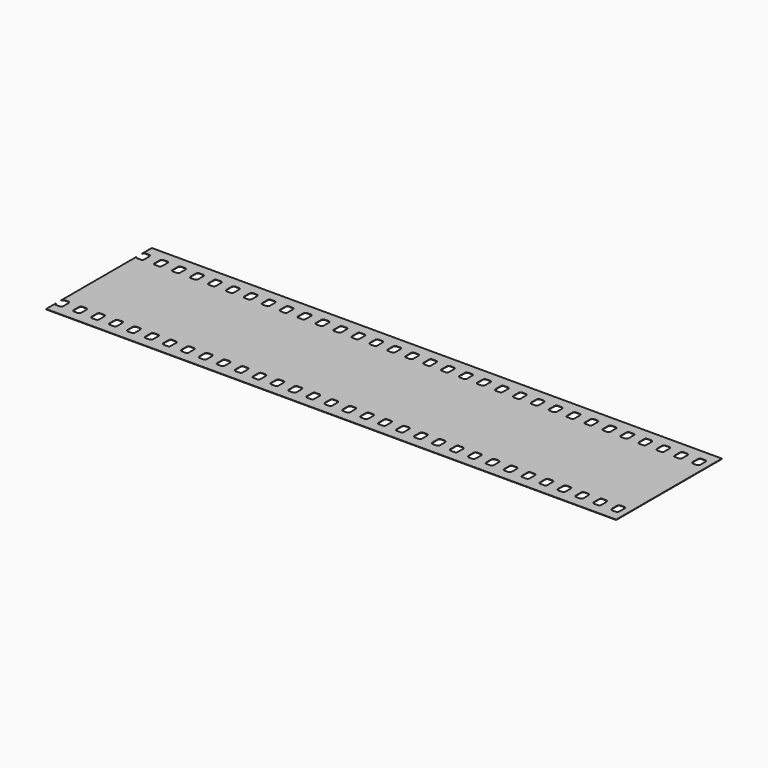
from build123d import *

# Parameters (mm, degrees)
F1_DEPTH = 0.1


with BuildPart() as f1:
    # F0 (on Top) → F1 (new body)
    with BuildSketch(Plane.XY):
        with BuildLine():
            Line((151, 0), (0, 0))
            Line((0, 0), (0, -3.216))
            ThreePointArc((0, -3.216), (0.149376, -2.855376), (0.51, -2.706))
            Line((0.51, -2.706), (1.471, -2.706))
            ThreePointArc((1.471, -2.706), (1.831624, -2.855376), (1.981, -3.216))
            Line((1.981, -3.216), (1.981, -4.99))
            ThreePointArc((1.981, -4.99), (1.831624, -5.350624), (1.471, -5.5))
            Line((1.471, -5.5), (0.51, -5.5))
            ThreePointArc((0.51, -5.5), (0.149376, -5.350624), (0, -4.99))
            Line((0, -4.99), (0, -30.01))
            ThreePointArc((0, -30.01), (0.149376, -29.649376), (0.51, -29.5))
            Line((0.51, -29.5), (1.471, -29.5))
            ThreePointArc((1.471, -29.5), (1.831624, -29.649376), (1.981, -30.01))
            Line((1.981, -30.01), (1.981, -31.784))
            ThreePointArc((1.981, -31.784), (1.831624, -32.144624), (1.471, -32.294))
            Line((1.471, -32.294), (0.51, -32.294))
            ThreePointArc((0.51, -32.294), (0.149376, -32.144624), (0, -31.784))
            Line((0, -31.784), (0, -35))
            Line((0, -35), (151, -35))
            Line((151, -35), (151, 0))
        make_face()
        with BuildLine():
            ThreePointArc((4.75, -30.01), (4.899376, -29.649376), (5.26, -29.5))
            Line((5.26, -29.5), (6.221, -29.5))
            ThreePointArc((6.221, -29.5), (6.581624, -29.649376), (6.731, -30.01))
            Line((6.731, -30.01), (6.731, -31.784))
            ThreePointArc((6.731, -31.784), (6.581624, -32.144624), (6.221, -32.294))
            Line((6.221, -32.294), (5.26, -32.294))
            ThreePointArc((5.26, -32.294), (4.899376, -32.144624), (4.75, -31.784))
            Line((4.75, -31.784), (4.75, -30.01))
        make_face(mode=Mode.SUBTRACT)
        with BuildLine():
            ThreePointArc((9.5, -30.01), (9.649376, -29.649376), (10.01, -29.5))
            Line((10.01, -29.5), (10.971, -29.5))
            ThreePointArc((10.971, -29.5), (11.331624, -29.649376), (11.481, -30.01))
            Line((11.481, -30.01), (11.481, -31.784))
            ThreePointArc((11.481, -31.784), (11.331624, -32.144624), (10.971, -32.294))
            Line((10.971, -32.294), (10.01, -32.294))
            ThreePointArc((10.01, -32.294), (9.649376, -32.144624), (9.5, -31.784))
            Line((9.5, -31.784), (9.5, -30.01))
        make_face(mode=Mode.SUBTRACT)
        with BuildLine():
            ThreePointArc((14.25, -30.01), (14.399376, -29.649376), (14.76, -29.5))
            Line((14.76, -29.5), (15.721, -29.5))
            ThreePointArc((15.721, -29.5), (16.081624, -29.649376), (16.231, -30.01))
            Line((16.231, -30.01), (16.231, -31.784))
            ThreePointArc((16.231, -31.784), (16.081624, -32.144624), (15.721, -32.294))
            Line((15.721, -32.294), (14.76, -32.294))
            ThreePointArc((14.76, -32.294), (14.399376, -32.144624), (14.25, -31.784))
            Line((14.25, -31.784), (14.25, -30.01))
        make_face(mode=Mode.SUBTRACT)
        with BuildLine():
            ThreePointArc((19, -30.01), (19.149376, -29.649376), (19.51, -29.5))
            Line((19.51, -29.5), (20.471, -29.5))
            ThreePointArc((20.471, -29.5), (20.831624, -29.649376), (20.981, -30.01))
            Line((20.981, -30.01), (20.981, -31.784))
            ThreePointArc((20.981, -31.784), (20.831624, -32.144624), (20.471, -32.294))
            Line((20.471, -32.294), (19.51, -32.294))
            ThreePointArc((19.51, -32.294), (19.149376, -32.144624), (19, -31.784))
            Line((19, -31.784), (19, -30.01))
        make_face(mode=Mode.SUBTRACT)
        with BuildLine():
            ThreePointArc((23.75, -30.01), (23.899376, -29.649376), (24.26, -29.5))
            Line((24.26, -29.5), (25.221, -29.5))
            ThreePointArc((25.221, -29.5), (25.581624, -29.649376), (25.731, -30.01))
            Line((25.731, -30.01), (25.731, -31.784))
            ThreePointArc((25.731, -31.784), (25.581624, -32.144624), (25.221, -32.294))
            Line((25.221, -32.294), (24.26, -32.294))
            ThreePointArc((24.26, -32.294), (23.899376, -32.144624), (23.75, -31.784))
            Line((23.75, -31.784), (23.75, -30.01))
        make_face(mode=Mode.SUBTRACT)
        with BuildLine():
            ThreePointArc((28.5, -30.01), (28.649376, -29.649376), (29.01, -29.5))
            Line((29.01, -29.5), (29.971, -29.5))
            ThreePointArc((29.971, -29.5), (30.331624, -29.649376), (30.481, -30.01))
            Line((30.481, -30.01), (30.481, -31.784))
            ThreePointArc((30.481, -31.784), (30.331624, -32.144624), (29.971, -32.294))
            Line((29.971, -32.294), (29.01, -32.294))
            ThreePointArc((29.01, -32.294), (28.649376, -32.144624), (28.5, -31.784))
            Line((28.5, -31.784), (28.5, -30.01))
        make_face(mode=Mode.SUBTRACT)
        with BuildLine():
            ThreePointArc((33.25, -30.01), (33.399376, -29.649376), (33.76, -29.5))
            Line((33.76, -29.5), (34.721, -29.5))
            ThreePointArc((34.721, -29.5), (35.081624, -29.649376), (35.231, -30.01))
            Line((35.231, -30.01), (35.231, -31.784))
            ThreePointArc((35.231, -31.784), (35.081624, -32.144624), (34.721, -32.294))
            Line((34.721, -32.294), (33.76, -32.294))
            ThreePointArc((33.76, -32.294), (33.399376, -32.144624), (33.25, -31.784))
            Line((33.25, -31.784), (33.25, -30.01))
        make_face(mode=Mode.SUBTRACT)
        with BuildLine():
            ThreePointArc((38, -30.01), (38.149376, -29.649376), (38.51, -29.5))
            Line((38.51, -29.5), (39.471, -29.5))
            ThreePointArc((39.471, -29.5), (39.831624, -29.649376), (39.981, -30.01))
            Line((39.981, -30.01), (39.981, -31.784))
            ThreePointArc((39.981, -31.784), (39.831624, -32.144624), (39.471, -32.294))
            Line((39.471, -32.294), (38.51, -32.294))
            ThreePointArc((38.51, -32.294), (38.149376, -32.144624), (38, -31.784))
            Line((38, -31.784), (38, -30.01))
        make_face(mode=Mode.SUBTRACT)
        with BuildLine():
            ThreePointArc((42.75, -30.01), (42.899376, -29.649376), (43.26, -29.5))
            Line((43.26, -29.5), (44.221, -29.5))
            ThreePointArc((44.221, -29.5), (44.581624, -29.649376), (44.731, -30.01))
            Line((44.731, -30.01), (44.731, -31.784))
            ThreePointArc((44.731, -31.784), (44.581624, -32.144624), (44.221, -32.294))
            Line((44.221, -32.294), (43.26, -32.294))
            ThreePointArc((43.26, -32.294), (42.899376, -32.144624), (42.75, -31.784))
            Line((42.75, -31.784), (42.75, -30.01))
        make_face(mode=Mode.SUBTRACT)
        with BuildLine():
            ThreePointArc((47.5, -30.01), (47.649376, -29.649376), (48.01, -29.5))
            Line((48.01, -29.5), (48.971, -29.5))
            ThreePointArc((48.971, -29.5), (49.331624, -29.649376), (49.481, -30.01))
            Line((49.481, -30.01), (49.481, -31.784))
            ThreePointArc((49.481, -31.784), (49.331624, -32.144624), (48.971, -32.294))
            Line((48.971, -32.294), (48.01, -32.294))
            ThreePointArc((48.01, -32.294), (47.649376, -32.144624), (47.5, -31.784))
            Line((47.5, -31.784), (47.5, -30.01))
        make_face(mode=Mode.SUBTRACT)
        with BuildLine():
            ThreePointArc((52.25, -30.01), (52.399376, -29.649376), (52.76, -29.5))
            Line((52.76, -29.5), (53.721, -29.5))
            ThreePointArc((53.721, -29.5), (54.081624, -29.649376), (54.231, -30.01))
            Line((54.231, -30.01), (54.231, -31.784))
            ThreePointArc((54.231, -31.784), (54.081624, -32.144624), (53.721, -32.294))
            Line((53.721, -32.294), (52.76, -32.294))
            ThreePointArc((52.76, -32.294), (52.399376, -32.144624), (52.25, -31.784))
            Line((52.25, -31.784), (52.25, -30.01))
        make_face(mode=Mode.SUBTRACT)
        with BuildLine():
            ThreePointArc((57, -30.01), (57.149376, -29.649376), (57.51, -29.5))
            Line((57.51, -29.5), (58.471, -29.5))
            ThreePointArc((58.471, -29.5), (58.831624, -29.649376), (58.981, -30.01))
            Line((58.981, -30.01), (58.981, -31.784))
            ThreePointArc((58.981, -31.784), (58.831624, -32.144624), (58.471, -32.294))
            Line((58.471, -32.294), (57.51, -32.294))
            ThreePointArc((57.51, -32.294), (57.149376, -32.144624), (57, -31.784))
            Line((57, -31.784), (57, -30.01))
        make_face(mode=Mode.SUBTRACT)
        with BuildLine():
            ThreePointArc((61.75, -30.01), (61.899376, -29.649376), (62.26, -29.5))
            Line((62.26, -29.5), (63.221, -29.5))
            ThreePointArc((63.221, -29.5), (63.581624, -29.649376), (63.731, -30.01))
            Line((63.731, -30.01), (63.731, -31.784))
            ThreePointArc((63.731, -31.784), (63.581624, -32.144624), (63.221, -32.294))
            Line((63.221, -32.294), (62.26, -32.294))
            ThreePointArc((62.26, -32.294), (61.899376, -32.144624), (61.75, -31.784))
            Line((61.75, -31.784), (61.75, -30.01))
        make_face(mode=Mode.SUBTRACT)
        with BuildLine():
            ThreePointArc((66.5, -30.01), (66.649376, -29.649376), (67.01, -29.5))
            Line((67.01, -29.5), (67.971, -29.5))
            ThreePointArc((67.971, -29.5), (68.331624, -29.649376), (68.481, -30.01))
            Line((68.481, -30.01), (68.481, -31.784))
            ThreePointArc((68.481, -31.784), (68.331624, -32.144624), (67.971, -32.294))
            Line((67.971, -32.294), (67.01, -32.294))
            ThreePointArc((67.01, -32.294), (66.649376, -32.144624), (66.5, -31.784))
            Line((66.5, -31.784), (66.5, -30.01))
        make_face(mode=Mode.SUBTRACT)
        with BuildLine():
            ThreePointArc((71.25, -30.01), (71.399376, -29.649376), (71.76, -29.5))
            Line((71.76, -29.5), (72.721, -29.5))
            ThreePointArc((72.721, -29.5), (73.081624, -29.649376), (73.231, -30.01))
            Line((73.231, -30.01), (73.231, -31.784))
            ThreePointArc((73.231, -31.784), (73.081624, -32.144624), (72.721, -32.294))
            Line((72.721, -32.294), (71.76, -32.294))
            ThreePointArc((71.76, -32.294), (71.399376, -32.144624), (71.25, -31.784))
            Line((71.25, -31.784), (71.25, -30.01))
        make_face(mode=Mode.SUBTRACT)
        with BuildLine():
            ThreePointArc((76, -30.01), (76.149376, -29.649376), (76.51, -29.5))
            Line((76.51, -29.5), (77.471, -29.5))
            ThreePointArc((77.471, -29.5), (77.831624, -29.649376), (77.981, -30.01))
            Line((77.981, -30.01), (77.981, -31.784))
            ThreePointArc((77.981, -31.784), (77.831624, -32.144624), (77.471, -32.294))
            Line((77.471, -32.294), (76.51, -32.294))
            ThreePointArc((76.51, -32.294), (76.149376, -32.144624), (76, -31.784))
            Line((76, -31.784), (76, -30.01))
        make_face(mode=Mode.SUBTRACT)
        with BuildLine():
            ThreePointArc((80.75, -30.01), (80.899376, -29.649376), (81.26, -29.5))
            Line((81.26, -29.5), (82.221, -29.5))
            ThreePointArc((82.221, -29.5), (82.581624, -29.649376), (82.731, -30.01))
            Line((82.731, -30.01), (82.731, -31.784))
            ThreePointArc((82.731, -31.784), (82.581624, -32.144624), (82.221, -32.294))
            Line((82.221, -32.294), (81.26, -32.294))
            ThreePointArc((81.26, -32.294), (80.899376, -32.144624), (80.75, -31.784))
            Line((80.75, -31.784), (80.75, -30.01))
        make_face(mode=Mode.SUBTRACT)
        with BuildLine():
            ThreePointArc((85.5, -30.01), (85.649376, -29.649376), (86.01, -29.5))
            Line((86.01, -29.5), (86.971, -29.5))
            ThreePointArc((86.971, -29.5), (87.331624, -29.649376), (87.481, -30.01))
            Line((87.481, -30.01), (87.481, -31.784))
            ThreePointArc((87.481, -31.784), (87.331624, -32.144624), (86.971, -32.294))
            Line((86.971, -32.294), (86.01, -32.294))
            ThreePointArc((86.01, -32.294), (85.649376, -32.144624), (85.5, -31.784))
            Line((85.5, -31.784), (85.5, -30.01))
        make_face(mode=Mode.SUBTRACT)
        with BuildLine():
            ThreePointArc((90.25, -30.01), (90.399376, -29.649376), (90.76, -29.5))
            Line((90.76, -29.5), (91.721, -29.5))
            ThreePointArc((91.721, -29.5), (92.081624, -29.649376), (92.231, -30.01))
            Line((92.231, -30.01), (92.231, -31.784))
            ThreePointArc((92.231, -31.784), (92.081624, -32.144624), (91.721, -32.294))
            Line((91.721, -32.294), (90.76, -32.294))
            ThreePointArc((90.76, -32.294), (90.399376, -32.144624), (90.25, -31.784))
            Line((90.25, -31.784), (90.25, -30.01))
        make_face(mode=Mode.SUBTRACT)
        with BuildLine():
            ThreePointArc((95, -30.01), (95.149376, -29.649376), (95.51, -29.5))
            Line((95.51, -29.5), (96.471, -29.5))
            ThreePointArc((96.471, -29.5), (96.831624, -29.649376), (96.981, -30.01))
            Line((96.981, -30.01), (96.981, -31.784))
            ThreePointArc((96.981, -31.784), (96.831624, -32.144624), (96.471, -32.294))
            Line((96.471, -32.294), (95.51, -32.294))
            ThreePointArc((95.51, -32.294), (95.149376, -32.144624), (95, -31.784))
            Line((95, -31.784), (95, -30.01))
        make_face(mode=Mode.SUBTRACT)
        with BuildLine():
            ThreePointArc((99.75, -30.01), (99.899376, -29.649376), (100.26, -29.5))
            Line((100.26, -29.5), (101.221, -29.5))
            ThreePointArc((101.221, -29.5), (101.581624, -29.649376), (101.731, -30.01))
            Line((101.731, -30.01), (101.731, -31.784))
            ThreePointArc((101.731, -31.784), (101.581624, -32.144624), (101.221, -32.294))
            Line((101.221, -32.294), (100.26, -32.294))
            ThreePointArc((100.26, -32.294), (99.899376, -32.144624), (99.75, -31.784))
            Line((99.75, -31.784), (99.75, -30.01))
        make_face(mode=Mode.SUBTRACT)
        with BuildLine():
            ThreePointArc((104.5, -30.01), (104.649376, -29.649376), (105.01, -29.5))
            Line((105.01, -29.5), (105.971, -29.5))
            ThreePointArc((105.971, -29.5), (106.331624, -29.649376), (106.481, -30.01))
            Line((106.481, -30.01), (106.481, -31.784))
            ThreePointArc((106.481, -31.784), (106.331624, -32.144624), (105.971, -32.294))
            Line((105.971, -32.294), (105.01, -32.294))
            ThreePointArc((105.01, -32.294), (104.649376, -32.144624), (104.5, -31.784))
            Line((104.5, -31.784), (104.5, -30.01))
        make_face(mode=Mode.SUBTRACT)
        with BuildLine():
            ThreePointArc((109.25, -30.01), (109.399376, -29.649376), (109.76, -29.5))
            Line((109.76, -29.5), (110.721, -29.5))
            ThreePointArc((110.721, -29.5), (111.081624, -29.649376), (111.231, -30.01))
            Line((111.231, -30.01), (111.231, -31.784))
            ThreePointArc((111.231, -31.784), (111.081624, -32.144624), (110.721, -32.294))
            Line((110.721, -32.294), (109.76, -32.294))
            ThreePointArc((109.76, -32.294), (109.399376, -32.144624), (109.25, -31.784))
            Line((109.25, -31.784), (109.25, -30.01))
        make_face(mode=Mode.SUBTRACT)
        with BuildLine():
            ThreePointArc((114, -30.01), (114.149376, -29.649376), (114.51, -29.5))
            Line((114.51, -29.5), (115.471, -29.5))
            ThreePointArc((115.471, -29.5), (115.831624, -29.649376), (115.981, -30.01))
            Line((115.981, -30.01), (115.981, -31.784))
            ThreePointArc((115.981, -31.784), (115.831624, -32.144624), (115.471, -32.294))
            Line((115.471, -32.294), (114.51, -32.294))
            ThreePointArc((114.51, -32.294), (114.149376, -32.144624), (114, -31.784))
            Line((114, -31.784), (114, -30.01))
        make_face(mode=Mode.SUBTRACT)
        with BuildLine():
            ThreePointArc((118.75, -30.01), (118.899376, -29.649376), (119.26, -29.5))
            Line((119.26, -29.5), (120.221, -29.5))
            ThreePointArc((120.221, -29.5), (120.581624, -29.649376), (120.731, -30.01))
            Line((120.731, -30.01), (120.731, -31.784))
            ThreePointArc((120.731, -31.784), (120.581624, -32.144624), (120.221, -32.294))
            Line((120.221, -32.294), (119.26, -32.294))
            ThreePointArc((119.26, -32.294), (118.899376, -32.144624), (118.75, -31.784))
            Line((118.75, -31.784), (118.75, -30.01))
        make_face(mode=Mode.SUBTRACT)
        with BuildLine():
            ThreePointArc((123.5, -30.01), (123.649376, -29.649376), (124.01, -29.5))
            Line((124.01, -29.5), (124.971, -29.5))
            ThreePointArc((124.971, -29.5), (125.331624, -29.649376), (125.481, -30.01))
            Line((125.481, -30.01), (125.481, -31.784))
            ThreePointArc((125.481, -31.784), (125.331624, -32.144624), (124.971, -32.294))
            Line((124.971, -32.294), (124.01, -32.294))
            ThreePointArc((124.01, -32.294), (123.649376, -32.144624), (123.5, -31.784))
            Line((123.5, -31.784), (123.5, -30.01))
        make_face(mode=Mode.SUBTRACT)
        with BuildLine():
            ThreePointArc((128.25, -30.01), (128.399376, -29.649376), (128.76, -29.5))
            Line((128.76, -29.5), (129.721, -29.5))
            ThreePointArc((129.721, -29.5), (130.081624, -29.649376), (130.231, -30.01))
            Line((130.231, -30.01), (130.231, -31.784))
            ThreePointArc((130.231, -31.784), (130.081624, -32.144624), (129.721, -32.294))
            Line((129.721, -32.294), (128.76, -32.294))
            ThreePointArc((128.76, -32.294), (128.399376, -32.144624), (128.25, -31.784))
            Line((128.25, -31.784), (128.25, -30.01))
        make_face(mode=Mode.SUBTRACT)
        with BuildLine():
            ThreePointArc((133, -30.01), (133.149376, -29.649376), (133.51, -29.5))
            Line((133.51, -29.5), (134.471, -29.5))
            ThreePointArc((134.471, -29.5), (134.831624, -29.649376), (134.981, -30.01))
            Line((134.981, -30.01), (134.981, -31.784))
            ThreePointArc((134.981, -31.784), (134.831624, -32.144624), (134.471, -32.294))
            Line((134.471, -32.294), (133.51, -32.294))
            ThreePointArc((133.51, -32.294), (133.149376, -32.144624), (133, -31.784))
            Line((133, -31.784), (133, -30.01))
        make_face(mode=Mode.SUBTRACT)
        with BuildLine():
            ThreePointArc((137.75, -30.01), (137.899376, -29.649376), (138.26, -29.5))
            Line((138.26, -29.5), (139.221, -29.5))
            ThreePointArc((139.221, -29.5), (139.581624, -29.649376), (139.731, -30.01))
            Line((139.731, -30.01), (139.731, -31.784))
            ThreePointArc((139.731, -31.784), (139.581624, -32.144624), (139.221, -32.294))
            Line((139.221, -32.294), (138.26, -32.294))
            ThreePointArc((138.26, -32.294), (137.899376, -32.144624), (137.75, -31.784))
            Line((137.75, -31.784), (137.75, -30.01))
        make_face(mode=Mode.SUBTRACT)
        with BuildLine():
            ThreePointArc((142.5, -30.01), (142.649376, -29.649376), (143.01, -29.5))
            Line((143.01, -29.5), (143.971, -29.5))
            ThreePointArc((143.971, -29.5), (144.331624, -29.649376), (144.481, -30.01))
            Line((144.481, -30.01), (144.481, -31.784))
            ThreePointArc((144.481, -31.784), (144.331624, -32.144624), (143.971, -32.294))
            Line((143.971, -32.294), (143.01, -32.294))
            ThreePointArc((143.01, -32.294), (142.649376, -32.144624), (142.5, -31.784))
            Line((142.5, -31.784), (142.5, -30.01))
        make_face(mode=Mode.SUBTRACT)
        with BuildLine():
            ThreePointArc((147.25, -30.01), (147.399376, -29.649376), (147.76, -29.5))
            Line((147.76, -29.5), (148.721, -29.5))
            ThreePointArc((148.721, -29.5), (149.081624, -29.649376), (149.231, -30.01))
            Line((149.231, -30.01), (149.231, -31.784))
            ThreePointArc((149.231, -31.784), (149.081624, -32.144624), (148.721, -32.294))
            Line((148.721, -32.294), (147.76, -32.294))
            ThreePointArc((147.76, -32.294), (147.399376, -32.144624), (147.25, -31.784))
            Line((147.25, -31.784), (147.25, -30.01))
        make_face(mode=Mode.SUBTRACT)
        with BuildLine():
            ThreePointArc((4.75, -3.216), (4.899376, -2.855376), (5.26, -2.706))
            Line((5.26, -2.706), (6.221, -2.706))
            ThreePointArc((6.221, -2.706), (6.581624, -2.855376), (6.731, -3.216))
            Line((6.731, -3.216), (6.731, -4.99))
            ThreePointArc((6.731, -4.99), (6.581624, -5.350624), (6.221, -5.5))
            Line((6.221, -5.5), (5.26, -5.5))
            ThreePointArc((5.26, -5.5), (4.899376, -5.350624), (4.75, -4.99))
            Line((4.75, -4.99), (4.75, -3.216))
        make_face(mode=Mode.SUBTRACT)
        with BuildLine():
            ThreePointArc((9.5, -3.216), (9.649376, -2.855376), (10.01, -2.706))
            Line((10.01, -2.706), (10.971, -2.706))
            ThreePointArc((10.971, -2.706), (11.331624, -2.855376), (11.481, -3.216))
            Line((11.481, -3.216), (11.481, -4.99))
            ThreePointArc((11.481, -4.99), (11.331624, -5.350624), (10.971, -5.5))
            Line((10.971, -5.5), (10.01, -5.5))
            ThreePointArc((10.01, -5.5), (9.649376, -5.350624), (9.5, -4.99))
            Line((9.5, -4.99), (9.5, -3.216))
        make_face(mode=Mode.SUBTRACT)
        with BuildLine():
            ThreePointArc((14.25, -3.216), (14.399376, -2.855376), (14.76, -2.706))
            Line((14.76, -2.706), (15.721, -2.706))
            ThreePointArc((15.721, -2.706), (16.081624, -2.855376), (16.231, -3.216))
            Line((16.231, -3.216), (16.231, -4.99))
            ThreePointArc((16.231, -4.99), (16.081624, -5.350624), (15.721, -5.5))
            Line((15.721, -5.5), (14.76, -5.5))
            ThreePointArc((14.76, -5.5), (14.399376, -5.350624), (14.25, -4.99))
            Line((14.25, -4.99), (14.25, -3.216))
        make_face(mode=Mode.SUBTRACT)
        with BuildLine():
            ThreePointArc((19, -3.216), (19.149376, -2.855376), (19.51, -2.706))
            Line((19.51, -2.706), (20.471, -2.706))
            ThreePointArc((20.471, -2.706), (20.831624, -2.855376), (20.981, -3.216))
            Line((20.981, -3.216), (20.981, -4.99))
            ThreePointArc((20.981, -4.99), (20.831624, -5.350624), (20.471, -5.5))
            Line((20.471, -5.5), (19.51, -5.5))
            ThreePointArc((19.51, -5.5), (19.149376, -5.350624), (19, -4.99))
            Line((19, -4.99), (19, -3.216))
        make_face(mode=Mode.SUBTRACT)
        with BuildLine():
            ThreePointArc((23.75, -3.216), (23.899376, -2.855376), (24.26, -2.706))
            Line((24.26, -2.706), (25.221, -2.706))
            ThreePointArc((25.221, -2.706), (25.581624, -2.855376), (25.731, -3.216))
            Line((25.731, -3.216), (25.731, -4.99))
            ThreePointArc((25.731, -4.99), (25.581624, -5.350624), (25.221, -5.5))
            Line((25.221, -5.5), (24.26, -5.5))
            ThreePointArc((24.26, -5.5), (23.899376, -5.350624), (23.75, -4.99))
            Line((23.75, -4.99), (23.75, -3.216))
        make_face(mode=Mode.SUBTRACT)
        with BuildLine():
            ThreePointArc((28.5, -3.216), (28.649376, -2.855376), (29.01, -2.706))
            Line((29.01, -2.706), (29.971, -2.706))
            ThreePointArc((29.971, -2.706), (30.331624, -2.855376), (30.481, -3.216))
            Line((30.481, -3.216), (30.481, -4.99))
            ThreePointArc((30.481, -4.99), (30.331624, -5.350624), (29.971, -5.5))
            Line((29.971, -5.5), (29.01, -5.5))
            ThreePointArc((29.01, -5.5), (28.649376, -5.350624), (28.5, -4.99))
            Line((28.5, -4.99), (28.5, -3.216))
        make_face(mode=Mode.SUBTRACT)
        with BuildLine():
            ThreePointArc((33.25, -3.216), (33.399376, -2.855376), (33.76, -2.706))
            Line((33.76, -2.706), (34.721, -2.706))
            ThreePointArc((34.721, -2.706), (35.081624, -2.855376), (35.231, -3.216))
            Line((35.231, -3.216), (35.231, -4.99))
            ThreePointArc((35.231, -4.99), (35.081624, -5.350624), (34.721, -5.5))
            Line((34.721, -5.5), (33.76, -5.5))
            ThreePointArc((33.76, -5.5), (33.399376, -5.350624), (33.25, -4.99))
            Line((33.25, -4.99), (33.25, -3.216))
        make_face(mode=Mode.SUBTRACT)
        with BuildLine():
            ThreePointArc((38, -3.216), (38.149376, -2.855376), (38.51, -2.706))
            Line((38.51, -2.706), (39.471, -2.706))
            ThreePointArc((39.471, -2.706), (39.831624, -2.855376), (39.981, -3.216))
            Line((39.981, -3.216), (39.981, -4.99))
            ThreePointArc((39.981, -4.99), (39.831624, -5.350624), (39.471, -5.5))
            Line((39.471, -5.5), (38.51, -5.5))
            ThreePointArc((38.51, -5.5), (38.149376, -5.350624), (38, -4.99))
            Line((38, -4.99), (38, -3.216))
        make_face(mode=Mode.SUBTRACT)
        with BuildLine():
            ThreePointArc((42.75, -3.216), (42.899376, -2.855376), (43.26, -2.706))
            Line((43.26, -2.706), (44.221, -2.706))
            ThreePointArc((44.221, -2.706), (44.581624, -2.855376), (44.731, -3.216))
            Line((44.731, -3.216), (44.731, -4.99))
            ThreePointArc((44.731, -4.99), (44.581624, -5.350624), (44.221, -5.5))
            Line((44.221, -5.5), (43.26, -5.5))
            ThreePointArc((43.26, -5.5), (42.899376, -5.350624), (42.75, -4.99))
            Line((42.75, -4.99), (42.75, -3.216))
        make_face(mode=Mode.SUBTRACT)
        with BuildLine():
            ThreePointArc((47.5, -3.216), (47.649376, -2.855376), (48.01, -2.706))
            Line((48.01, -2.706), (48.971, -2.706))
            ThreePointArc((48.971, -2.706), (49.331624, -2.855376), (49.481, -3.216))
            Line((49.481, -3.216), (49.481, -4.99))
            ThreePointArc((49.481, -4.99), (49.331624, -5.350624), (48.971, -5.5))
            Line((48.971, -5.5), (48.01, -5.5))
            ThreePointArc((48.01, -5.5), (47.649376, -5.350624), (47.5, -4.99))
            Line((47.5, -4.99), (47.5, -3.216))
        make_face(mode=Mode.SUBTRACT)
        with BuildLine():
            ThreePointArc((52.25, -3.216), (52.399376, -2.855376), (52.76, -2.706))
            Line((52.76, -2.706), (53.721, -2.706))
            ThreePointArc((53.721, -2.706), (54.081624, -2.855376), (54.231, -3.216))
            Line((54.231, -3.216), (54.231, -4.99))
            ThreePointArc((54.231, -4.99), (54.081624, -5.350624), (53.721, -5.5))
            Line((53.721, -5.5), (52.76, -5.5))
            ThreePointArc((52.76, -5.5), (52.399376, -5.350624), (52.25, -4.99))
            Line((52.25, -4.99), (52.25, -3.216))
        make_face(mode=Mode.SUBTRACT)
        with BuildLine():
            ThreePointArc((57, -3.216), (57.149376, -2.855376), (57.51, -2.706))
            Line((57.51, -2.706), (58.471, -2.706))
            ThreePointArc((58.471, -2.706), (58.831624, -2.855376), (58.981, -3.216))
            Line((58.981, -3.216), (58.981, -4.99))
            ThreePointArc((58.981, -4.99), (58.831624, -5.350624), (58.471, -5.5))
            Line((58.471, -5.5), (57.51, -5.5))
            ThreePointArc((57.51, -5.5), (57.149376, -5.350624), (57, -4.99))
            Line((57, -4.99), (57, -3.216))
        make_face(mode=Mode.SUBTRACT)
        with BuildLine():
            ThreePointArc((61.75, -3.216), (61.899376, -2.855376), (62.26, -2.706))
            Line((62.26, -2.706), (63.221, -2.706))
            ThreePointArc((63.221, -2.706), (63.581624, -2.855376), (63.731, -3.216))
            Line((63.731, -3.216), (63.731, -4.99))
            ThreePointArc((63.731, -4.99), (63.581624, -5.350624), (63.221, -5.5))
            Line((63.221, -5.5), (62.26, -5.5))
            ThreePointArc((62.26, -5.5), (61.899376, -5.350624), (61.75, -4.99))
            Line((61.75, -4.99), (61.75, -3.216))
        make_face(mode=Mode.SUBTRACT)
        with BuildLine():
            ThreePointArc((66.5, -3.216), (66.649376, -2.855376), (67.01, -2.706))
            Line((67.01, -2.706), (67.971, -2.706))
            ThreePointArc((67.971, -2.706), (68.331624, -2.855376), (68.481, -3.216))
            Line((68.481, -3.216), (68.481, -4.99))
            ThreePointArc((68.481, -4.99), (68.331624, -5.350624), (67.971, -5.5))
            Line((67.971, -5.5), (67.01, -5.5))
            ThreePointArc((67.01, -5.5), (66.649376, -5.350624), (66.5, -4.99))
            Line((66.5, -4.99), (66.5, -3.216))
        make_face(mode=Mode.SUBTRACT)
        with BuildLine():
            ThreePointArc((71.25, -3.216), (71.399376, -2.855376), (71.76, -2.706))
            Line((71.76, -2.706), (72.721, -2.706))
            ThreePointArc((72.721, -2.706), (73.081624, -2.855376), (73.231, -3.216))
            Line((73.231, -3.216), (73.231, -4.99))
            ThreePointArc((73.231, -4.99), (73.081624, -5.350624), (72.721, -5.5))
            Line((72.721, -5.5), (71.76, -5.5))
            ThreePointArc((71.76, -5.5), (71.399376, -5.350624), (71.25, -4.99))
            Line((71.25, -4.99), (71.25, -3.216))
        make_face(mode=Mode.SUBTRACT)
        with BuildLine():
            ThreePointArc((76, -3.216), (76.149376, -2.855376), (76.51, -2.706))
            Line((76.51, -2.706), (77.471, -2.706))
            ThreePointArc((77.471, -2.706), (77.831624, -2.855376), (77.981, -3.216))
            Line((77.981, -3.216), (77.981, -4.99))
            ThreePointArc((77.981, -4.99), (77.831624, -5.350624), (77.471, -5.5))
            Line((77.471, -5.5), (76.51, -5.5))
            ThreePointArc((76.51, -5.5), (76.149376, -5.350624), (76, -4.99))
            Line((76, -4.99), (76, -3.216))
        make_face(mode=Mode.SUBTRACT)
        with BuildLine():
            ThreePointArc((80.75, -3.216), (80.899376, -2.855376), (81.26, -2.706))
            Line((81.26, -2.706), (82.221, -2.706))
            ThreePointArc((82.221, -2.706), (82.581624, -2.855376), (82.731, -3.216))
            Line((82.731, -3.216), (82.731, -4.99))
            ThreePointArc((82.731, -4.99), (82.581624, -5.350624), (82.221, -5.5))
            Line((82.221, -5.5), (81.26, -5.5))
            ThreePointArc((81.26, -5.5), (80.899376, -5.350624), (80.75, -4.99))
            Line((80.75, -4.99), (80.75, -3.216))
        make_face(mode=Mode.SUBTRACT)
        with BuildLine():
            ThreePointArc((85.5, -3.216), (85.649376, -2.855376), (86.01, -2.706))
            Line((86.01, -2.706), (86.971, -2.706))
            ThreePointArc((86.971, -2.706), (87.331624, -2.855376), (87.481, -3.216))
            Line((87.481, -3.216), (87.481, -4.99))
            ThreePointArc((87.481, -4.99), (87.331624, -5.350624), (86.971, -5.5))
            Line((86.971, -5.5), (86.01, -5.5))
            ThreePointArc((86.01, -5.5), (85.649376, -5.350624), (85.5, -4.99))
            Line((85.5, -4.99), (85.5, -3.216))
        make_face(mode=Mode.SUBTRACT)
        with BuildLine():
            ThreePointArc((90.25, -3.216), (90.399376, -2.855376), (90.76, -2.706))
            Line((90.76, -2.706), (91.721, -2.706))
            ThreePointArc((91.721, -2.706), (92.081624, -2.855376), (92.231, -3.216))
            Line((92.231, -3.216), (92.231, -4.99))
            ThreePointArc((92.231, -4.99), (92.081624, -5.350624), (91.721, -5.5))
            Line((91.721, -5.5), (90.76, -5.5))
            ThreePointArc((90.76, -5.5), (90.399376, -5.350624), (90.25, -4.99))
            Line((90.25, -4.99), (90.25, -3.216))
        make_face(mode=Mode.SUBTRACT)
        with BuildLine():
            ThreePointArc((95, -3.216), (95.149376, -2.855376), (95.51, -2.706))
            Line((95.51, -2.706), (96.471, -2.706))
            ThreePointArc((96.471, -2.706), (96.831624, -2.855376), (96.981, -3.216))
            Line((96.981, -3.216), (96.981, -4.99))
            ThreePointArc((96.981, -4.99), (96.831624, -5.350624), (96.471, -5.5))
            Line((96.471, -5.5), (95.51, -5.5))
            ThreePointArc((95.51, -5.5), (95.149376, -5.350624), (95, -4.99))
            Line((95, -4.99), (95, -3.216))
        make_face(mode=Mode.SUBTRACT)
        with BuildLine():
            ThreePointArc((99.75, -3.216), (99.899376, -2.855376), (100.26, -2.706))
            Line((100.26, -2.706), (101.221, -2.706))
            ThreePointArc((101.221, -2.706), (101.581624, -2.855376), (101.731, -3.216))
            Line((101.731, -3.216), (101.731, -4.99))
            ThreePointArc((101.731, -4.99), (101.581624, -5.350624), (101.221, -5.5))
            Line((101.221, -5.5), (100.26, -5.5))
            ThreePointArc((100.26, -5.5), (99.899376, -5.350624), (99.75, -4.99))
            Line((99.75, -4.99), (99.75, -3.216))
        make_face(mode=Mode.SUBTRACT)
        with BuildLine():
            ThreePointArc((104.5, -3.216), (104.649376, -2.855376), (105.01, -2.706))
            Line((105.01, -2.706), (105.971, -2.706))
            ThreePointArc((105.971, -2.706), (106.331624, -2.855376), (106.481, -3.216))
            Line((106.481, -3.216), (106.481, -4.99))
            ThreePointArc((106.481, -4.99), (106.331624, -5.350624), (105.971, -5.5))
            Line((105.971, -5.5), (105.01, -5.5))
            ThreePointArc((105.01, -5.5), (104.649376, -5.350624), (104.5, -4.99))
            Line((104.5, -4.99), (104.5, -3.216))
        make_face(mode=Mode.SUBTRACT)
        with BuildLine():
            ThreePointArc((109.25, -3.216), (109.399376, -2.855376), (109.76, -2.706))
            Line((109.76, -2.706), (110.721, -2.706))
            ThreePointArc((110.721, -2.706), (111.081624, -2.855376), (111.231, -3.216))
            Line((111.231, -3.216), (111.231, -4.99))
            ThreePointArc((111.231, -4.99), (111.081624, -5.350624), (110.721, -5.5))
            Line((110.721, -5.5), (109.76, -5.5))
            ThreePointArc((109.76, -5.5), (109.399376, -5.350624), (109.25, -4.99))
            Line((109.25, -4.99), (109.25, -3.216))
        make_face(mode=Mode.SUBTRACT)
        with BuildLine():
            ThreePointArc((114, -3.216), (114.149376, -2.855376), (114.51, -2.706))
            Line((114.51, -2.706), (115.471, -2.706))
            ThreePointArc((115.471, -2.706), (115.831624, -2.855376), (115.981, -3.216))
            Line((115.981, -3.216), (115.981, -4.99))
            ThreePointArc((115.981, -4.99), (115.831624, -5.350624), (115.471, -5.5))
            Line((115.471, -5.5), (114.51, -5.5))
            ThreePointArc((114.51, -5.5), (114.149376, -5.350624), (114, -4.99))
            Line((114, -4.99), (114, -3.216))
        make_face(mode=Mode.SUBTRACT)
        with BuildLine():
            ThreePointArc((118.75, -3.216), (118.899376, -2.855376), (119.26, -2.706))
            Line((119.26, -2.706), (120.221, -2.706))
            ThreePointArc((120.221, -2.706), (120.581624, -2.855376), (120.731, -3.216))
            Line((120.731, -3.216), (120.731, -4.99))
            ThreePointArc((120.731, -4.99), (120.581624, -5.350624), (120.221, -5.5))
            Line((120.221, -5.5), (119.26, -5.5))
            ThreePointArc((119.26, -5.5), (118.899376, -5.350624), (118.75, -4.99))
            Line((118.75, -4.99), (118.75, -3.216))
        make_face(mode=Mode.SUBTRACT)
        with BuildLine():
            ThreePointArc((123.5, -3.216), (123.649376, -2.855376), (124.01, -2.706))
            Line((124.01, -2.706), (124.971, -2.706))
            ThreePointArc((124.971, -2.706), (125.331624, -2.855376), (125.481, -3.216))
            Line((125.481, -3.216), (125.481, -4.99))
            ThreePointArc((125.481, -4.99), (125.331624, -5.350624), (124.971, -5.5))
            Line((124.971, -5.5), (124.01, -5.5))
            ThreePointArc((124.01, -5.5), (123.649376, -5.350624), (123.5, -4.99))
            Line((123.5, -4.99), (123.5, -3.216))
        make_face(mode=Mode.SUBTRACT)
        with BuildLine():
            ThreePointArc((128.25, -3.216), (128.399376, -2.855376), (128.76, -2.706))
            Line((128.76, -2.706), (129.721, -2.706))
            ThreePointArc((129.721, -2.706), (130.081624, -2.855376), (130.231, -3.216))
            Line((130.231, -3.216), (130.231, -4.99))
            ThreePointArc((130.231, -4.99), (130.081624, -5.350624), (129.721, -5.5))
            Line((129.721, -5.5), (128.76, -5.5))
            ThreePointArc((128.76, -5.5), (128.399376, -5.350624), (128.25, -4.99))
            Line((128.25, -4.99), (128.25, -3.216))
        make_face(mode=Mode.SUBTRACT)
        with BuildLine():
            ThreePointArc((133, -3.216), (133.149376, -2.855376), (133.51, -2.706))
            Line((133.51, -2.706), (134.471, -2.706))
            ThreePointArc((134.471, -2.706), (134.831624, -2.855376), (134.981, -3.216))
            Line((134.981, -3.216), (134.981, -4.99))
            ThreePointArc((134.981, -4.99), (134.831624, -5.350624), (134.471, -5.5))
            Line((134.471, -5.5), (133.51, -5.5))
            ThreePointArc((133.51, -5.5), (133.149376, -5.350624), (133, -4.99))
            Line((133, -4.99), (133, -3.216))
        make_face(mode=Mode.SUBTRACT)
        with BuildLine():
            ThreePointArc((137.75, -3.216), (137.899376, -2.855376), (138.26, -2.706))
            Line((138.26, -2.706), (139.221, -2.706))
            ThreePointArc((139.221, -2.706), (139.581624, -2.855376), (139.731, -3.216))
            Line((139.731, -3.216), (139.731, -4.99))
            ThreePointArc((139.731, -4.99), (139.581624, -5.350624), (139.221, -5.5))
            Line((139.221, -5.5), (138.26, -5.5))
            ThreePointArc((138.26, -5.5), (137.899376, -5.350624), (137.75, -4.99))
            Line((137.75, -4.99), (137.75, -3.216))
        make_face(mode=Mode.SUBTRACT)
        with BuildLine():
            ThreePointArc((142.5, -3.216), (142.649376, -2.855376), (143.01, -2.706))
            Line((143.01, -2.706), (143.971, -2.706))
            ThreePointArc((143.971, -2.706), (144.331624, -2.855376), (144.481, -3.216))
            Line((144.481, -3.216), (144.481, -4.99))
            ThreePointArc((144.481, -4.99), (144.331624, -5.350624), (143.971, -5.5))
            Line((143.971, -5.5), (143.01, -5.5))
            ThreePointArc((143.01, -5.5), (142.649376, -5.350624), (142.5, -4.99))
            Line((142.5, -4.99), (142.5, -3.216))
        make_face(mode=Mode.SUBTRACT)
        with BuildLine():
            ThreePointArc((147.25, -3.216), (147.399376, -2.855376), (147.76, -2.706))
            Line((147.76, -2.706), (148.721, -2.706))
            ThreePointArc((148.721, -2.706), (149.081624, -2.855376), (149.231, -3.216))
            Line((149.231, -3.216), (149.231, -4.99))
            ThreePointArc((149.231, -4.99), (149.081624, -5.350624), (148.721, -5.5))
            Line((148.721, -5.5), (147.76, -5.5))
            ThreePointArc((147.76, -5.5), (147.399376, -5.350624), (147.25, -4.99))
            Line((147.25, -4.99), (147.25, -3.216))
        make_face(mode=Mode.SUBTRACT)
    extrude(amount=F1_DEPTH)


solid = f1.part
